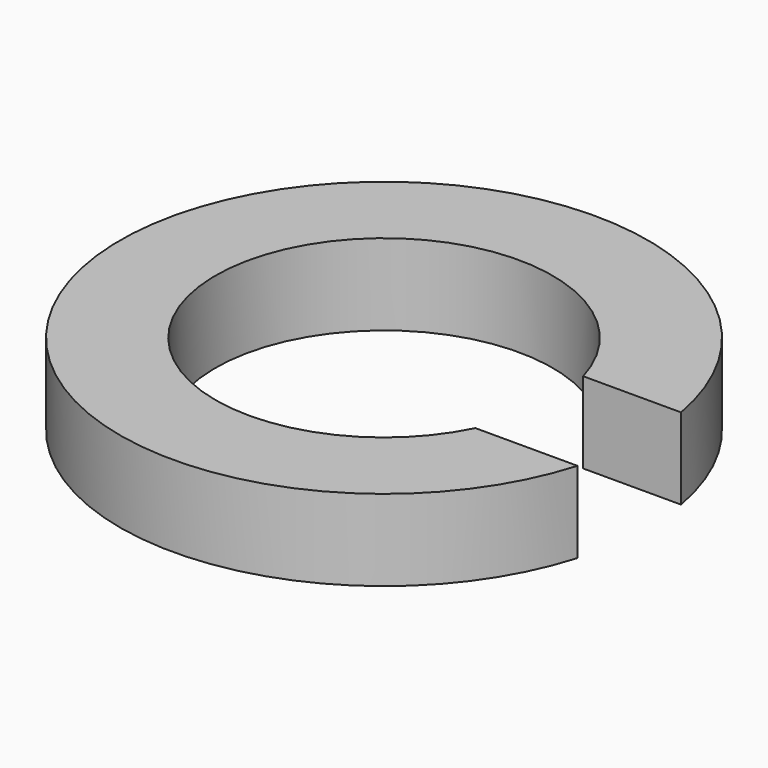
from build123d import *

# Parameters (mm, degrees)
F1_DEPTH = 2
F2_DEPTH = 25


with BuildPart() as f1:
    # F0 (on Top) → F1 (new body)
    with BuildSketch(Plane.XY):
        with BuildLine():
            ThreePointArc((-66.8075804249, -47.7313026786), (-66.6874776966, -48.2970097353), (-66.6471826196, -48.8739199936))
            ThreePointArc((-66.6471826196, -48.8739199936), (-66.7560134837, -49.8180873599), (-67.0767980487, -50.7127344608))
            Line((-67.0767980487, -50.7127344608), (-64.5627009767, -50.7127344608))
            ThreePointArc((-64.5627009767, -50.7127344608), (-64.3639046573, -49.8028627587), (-64.2971826196, -48.8739199936))
            ThreePointArc((-64.2971826196, -48.8739199936), (-64.3225362814, -48.3003741843), (-64.3983994797, -47.7313026786))
            Line((-64.3983994797, -47.7313026786), (-66.8075804249, -47.7313026786))
        make_face()
        with BuildLine():
            ThreePointArc((-67.0767980487, -50.7127344608), (-74.9303663621, -48.5007013568), (-66.8075804249, -47.7313026786))
            Line((-66.8075804249, -47.7313026786), (-64.3983994797, -47.7313026786))
            ThreePointArc((-64.3983994797, -47.7313026786), (-77.2873350551, -48.5162590311), (-64.5627009767, -50.7127344608))
            Line((-64.5627009767, -50.7127344608), (-67.0767980487, -50.7127344608))
        make_face()
    extrude(amount=F1_DEPTH)

    # F0 (on Top) → F2 (cut)
    with BuildSketch(Plane.XY):
        with BuildLine():
            ThreePointArc((-66.8075804249, -47.7313026786), (-66.6874776966, -48.2970097353), (-66.6471826196, -48.8739199936))
            ThreePointArc((-66.6471826196, -48.8739199936), (-66.7560134837, -49.8180873599), (-67.0767980487, -50.7127344608))
            Line((-67.0767980487, -50.7127344608), (-64.5627009767, -50.7127344608))
            ThreePointArc((-64.5627009767, -50.7127344608), (-64.3639046573, -49.8028627587), (-64.2971826196, -48.8739199936))
            ThreePointArc((-64.2971826196, -48.8739199936), (-64.3225362814, -48.3003741843), (-64.3983994797, -47.7313026786))
            Line((-64.3983994797, -47.7313026786), (-66.8075804249, -47.7313026786))
        make_face()
    extrude(amount=F2_DEPTH, mode=Mode.SUBTRACT)


solid = f1.part
